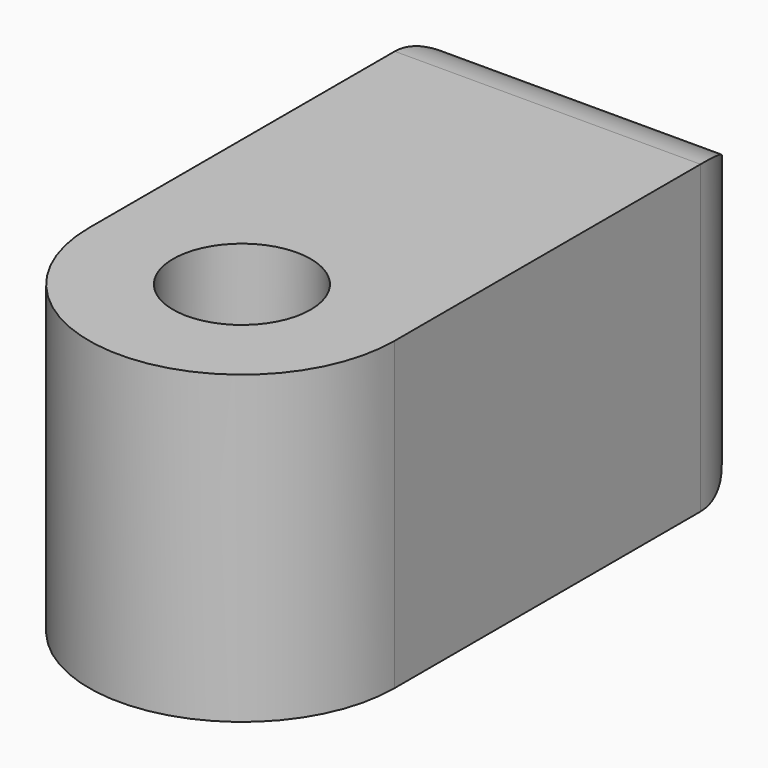
from build123d import *

# Parameters (mm, degrees)
F0_R     = 0.9
F1_DEPTH = 4
F2_R     = 0.9
F3_DEPTH = 4.7
F4_R     = 1


with BuildPart() as f1:
    # F0 (on Top) → F1 (new body)
    with BuildSketch(Plane.XY):
        with BuildLine():
            Line((-136.606078, -64.349075), (-136.606078, -70.349075))
            ThreePointArc((-136.606078, -70.349075), (-134.606078, -72.349075), (-132.606078, -70.349075))
            Line((-132.606078, -70.349075), (-132.606078, -64.349075))
            Line((-132.606078, -64.349075), (-136.606078, -64.349075))
        make_face()
        with Locations((-134.606078, -70.349075)):
            Circle(F0_R, mode=Mode.SUBTRACT)
    extrude(amount=F1_DEPTH)

    # F2 (on face) → F3 (cut)
    with BuildSketch(Plane(origin=(0, -64.349075, 0), x_dir=(-1, 0, 0), z_dir=(0, 1, 0))):
        with Locations((134.606078, 2)):
            Circle(F2_R)
    extrude(amount=-F3_DEPTH, mode=Mode.SUBTRACT)

    # F4
    f4_edges = [f1.edges().sort_by_distance(p)[0] for p in [
        (-132.606078, -64.349075, 2),
        (-134.606078, -64.349075, 0),
        (-136.606078, -64.349075, 2),
        (-134.606078, -64.349075, 4),
    ]]
    fillet(f4_edges, radius=F4_R)


solid = f1.part
